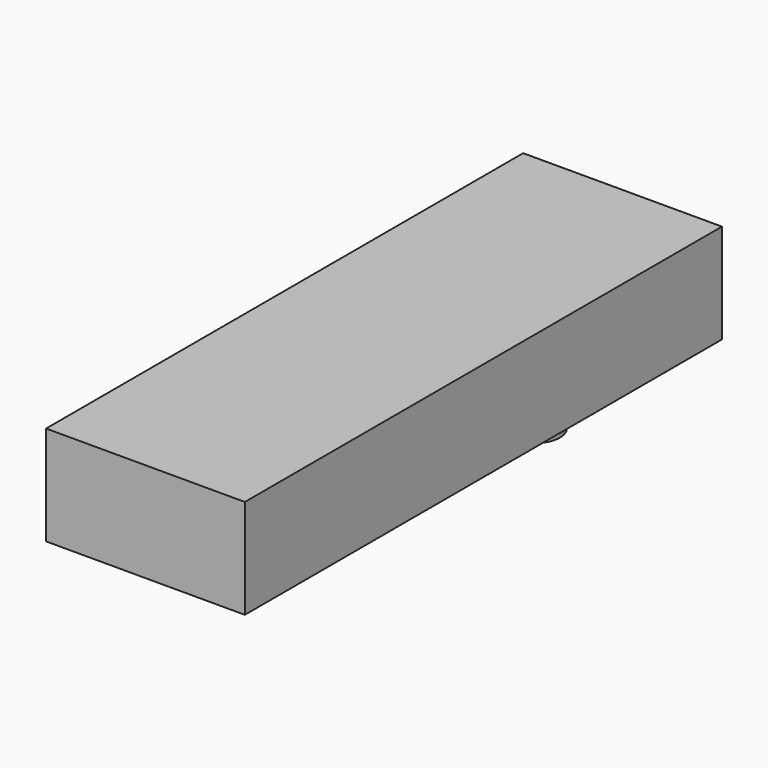
from build123d import *

# Parameters (mm, degrees)
F0_W     = 1000
F0_H     = 500
F1_DEPTH = 3000
F2_R     = 125
F3_DEPTH = 500


with BuildPart() as f1:
    # F0 (on Front) → F1 (new body)
    with BuildSketch(Plane.XZ):
        with Locations((500, 250)):
            Rectangle(F0_W, F0_H)
    extrude(amount=F1_DEPTH)

    # F2 (on Top) → F3 (join)
    with BuildSketch(Plane.XY):
        with Locations((300, -300)):
            Circle(F2_R)
    extrude(amount=-F3_DEPTH)


solid = f1.part
